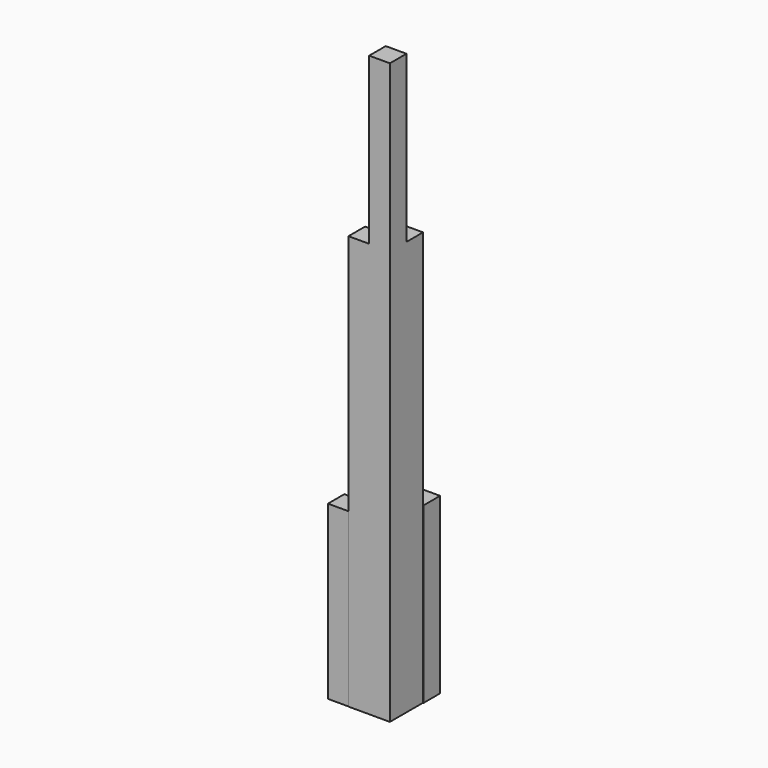
from build123d import *

# Parameters (mm, degrees)
F0_W      = 50.8
F0_H      = 50.8
F1_DEPTH  = 508
F2_W      = 25.4
F2_H      = 25.4
F3_DEPTH  = 254
F4_W      = 25.4
F4_H      = 25.4
F5_DEPTH  = 203.2
F6_W      = 25.777278
F6_H      = 25.4
F7_DEPTH  = 213.36
F8_W      = 25.4
F8_H      = 25.107741
F9_DEPTH  = 210.82
F11_DEPTH = 12.7


with BuildPart() as f1:
    # F0 (on Top) → F1 (new body)
    with BuildSketch(Plane.XY):
        with Locations((25.4, -25.4)):
            Rectangle(F0_W, F0_H)
    extrude(amount=F1_DEPTH)

    # F2 (on face) → F3 (cut)
    with BuildSketch(Plane.XY.offset(508)):
        with Locations((12.7, -12.7)):
            Rectangle(F2_W, F2_H)
    extrude(amount=-F3_DEPTH, mode=Mode.SUBTRACT)

    # F4 (on face) → F5 (join)
    with BuildSketch(Plane.XY.offset(508)):
        with Locations((38.1, -38.1)):
            Rectangle(F4_W, F4_H)
    extrude(amount=F5_DEPTH)

    # F6 (on Top) → F7 (join)
    with BuildSketch(Plane.XY):
        with Locations((38.498533, 12.7)):
            Rectangle(F6_W, F6_H)
    extrude(amount=F7_DEPTH)

    # F8 (on Top) → F9 (join)
    with BuildSketch(Plane.XY):
        with Locations((-12.7, -37.996381)):
            Rectangle(F8_W, F8_H)
    extrude(amount=F9_DEPTH)


with BuildPart() as f11:
    # F10 (on Top) → F11 (new body)
    with BuildSketch(Plane.XY):
        with BuildLine():
            ThreePointArc((-19.452488, 19.314527), (-18.195838, 21.206146), (-17.754772, 23.433892))
            ThreePointArc((-17.754772, 23.433892), (-29.006716, 25.661638), (-19.452488, 19.314527))
        make_face()
    extrude(amount=F11_DEPTH)


solid = Compound([f1.part, f11.part])
